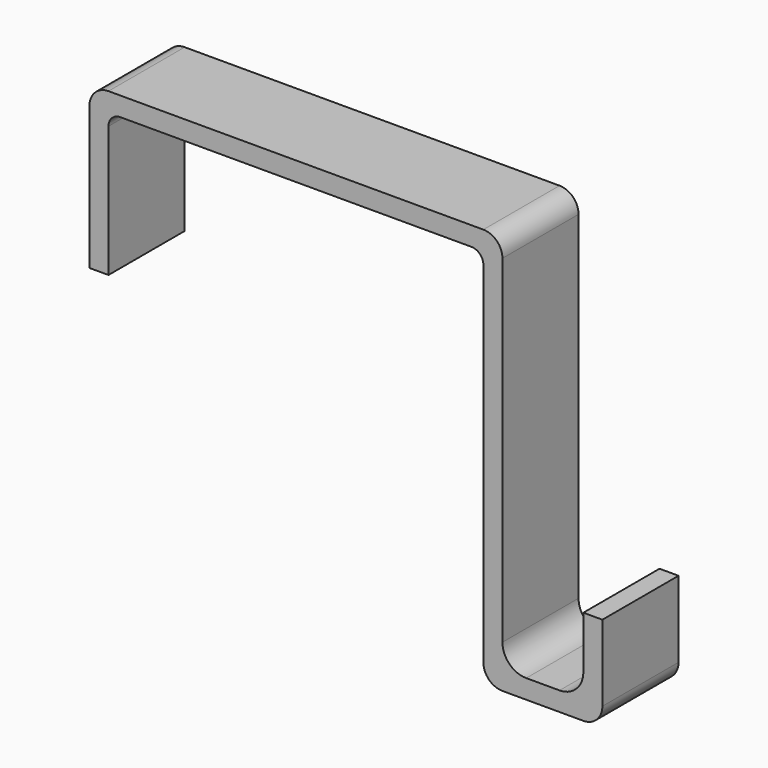
from build123d import *

# Parameters (mm, degrees)
F1_DEPTH = 25.4
F2_R     = 5.08


with BuildPart() as f1:
    # F0 (on Front) → F1 (new body)
    with BuildSketch(Plane.XZ):
        with BuildLine():
            Line((0, 43.18), (0, 0))
            Line((0, 0), (5.08, 0))
            Line((5.08, 0), (5.08, 34.925))
            ThreePointArc((5.08, 34.925), (6.009936, 37.170064), (8.255, 38.1))
            Line((8.255, 38.1), (101.905, 38.1))
            ThreePointArc((101.905, 38.1), (104.150064, 37.170064), (105.08, 34.925))
            Line((105.08, 34.925), (105.08, -63.5))
            Line((105.08, -63.5), (136.83, -63.5))
            Line((136.83, -63.5), (136.83, -38.1))
            Line((136.83, -38.1), (131.75, -38.1))
            Line((131.75, -38.1), (131.75, -52.07))
            ThreePointArc((131.75, -52.07), (129.890128, -56.560128), (125.4, -58.42))
            Line((125.4, -58.42), (116.51, -58.42))
            ThreePointArc((116.51, -58.42), (112.019872, -56.560128), (110.16, -52.07))
            Line((110.16, -52.07), (110.16, 43.18))
            Line((110.16, 43.18), (0, 43.18))
        make_face()
    extrude(amount=F1_DEPTH)

    # F2
    f2_edges = [f1.edges().sort_by_distance(p)[0] for p in [
        (0, -12.7, 43.18),
        (110.16, -12.7, 43.18),
        (136.83, -12.7, -63.5),
        (105.08, -12.7, -63.5),
    ]]
    fillet(f2_edges, radius=F2_R)


solid = f1.part
